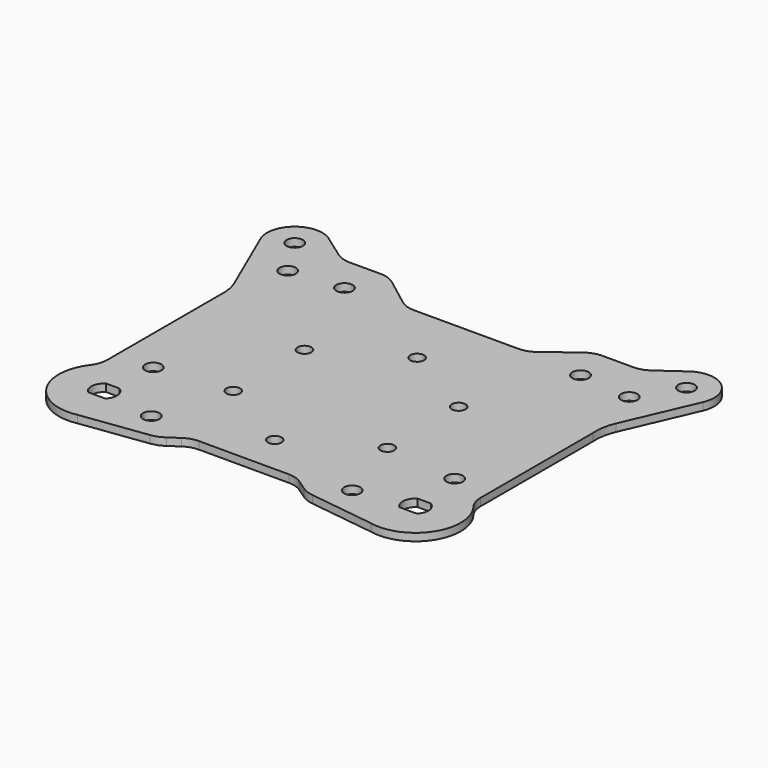
from build123d import *

# Parameters (mm, degrees)
F0_R     = 3.25
F0_R_2   = 2.75
F1_DEPTH = 3


with BuildPart() as f1:
    # F0 (on Top) → F1 (new body)
    with BuildSketch(Plane.XY):
        with BuildLine():
            Line((32.378213, -81.806454), (58.360535, -85.251828))
            ThreePointArc((58.360535, -85.251828), (77.254344, -77.201879), (76.349017, -56.684617))
            ThreePointArc((76.349017, -56.684617), (74.832645, -53.825332), (74.308901, -50.631497))
            Line((74.308901, -50.631497), (74.308901, 5.449101))
            ThreePointArc((74.308901, 5.449101), (74.545235, 10.183875), (75.895802, 14.728091))
            Line((75.895802, 14.728091), (88.09533, 42.92005))
            ThreePointArc((88.09533, 42.92005), (84.599998, 56.088611), (70.979487, 55.756927))
            Line((70.979487, 55.756927), (62.248647, 49.558354))
            ThreePointArc((62.248647, 49.558354), (59.497743, 48.185005), (56.459629, 47.712327))
            Line((56.459629, 47.712327), (44.118508, 47.712327))
            ThreePointArc((44.118508, 47.712327), (40.933325, 47.191494), (38.079932, 45.683249))
            Line((38.079932, 45.683249), (26.768604, 37.114063))
            ThreePointArc((26.768604, 37.114063), (23.915211, 35.605818), (20.730028, 35.084985))
            Line((20.730028, 35.084985), (0, 35.084985))
            Line((0, 35.084985), (-20.730028, 35.084985))
            ThreePointArc((-20.730028, 35.084985), (-23.915211, 35.605818), (-26.768604, 37.114063))
            Line((-26.768604, 37.114063), (-38.079932, 45.683249))
            ThreePointArc((-38.079932, 45.683249), (-40.933325, 47.191494), (-44.118508, 47.712327))
            Line((-44.118508, 47.712327), (-56.459629, 47.712327))
            ThreePointArc((-56.459629, 47.712327), (-59.497743, 48.185005), (-62.248647, 49.558354))
            Line((-62.248647, 49.558354), (-70.979487, 55.756927))
            ThreePointArc((-70.979487, 55.756927), (-84.599998, 56.088611), (-88.09533, 42.92005))
            Line((-88.09533, 42.92005), (-75.895802, 14.728091))
            ThreePointArc((-75.895802, 14.728091), (-74.545235, 10.183875), (-74.308901, 5.449101))
            Line((-74.308901, 5.449101), (-74.308901, -50.631497))
            ThreePointArc((-74.308901, -50.631497), (-74.832645, -53.825332), (-76.349017, -56.684617))
            ThreePointArc((-76.349017, -56.684617), (-77.254344, -77.201879), (-58.360535, -85.251828))
            Line((-58.360535, -85.251828), (-32.378213, -81.806454))
            ThreePointArc((-32.378213, -81.806454), (-29.750134, -81.136827), (-27.350595, -79.872941))
            Line((-27.350595, -79.872941), (-23.530637, -77.245817))
            ThreePointArc((-23.530637, -77.245817), (-20.830919, -75.935587), (-17.864027, -75.485328))
            Line((-17.864027, -75.485328), (0, -75.485328))
            Line((0, -75.485328), (17.864027, -75.485328))
            ThreePointArc((17.864027, -75.485328), (20.830919, -75.935587), (23.530637, -77.245817))
            Line((23.530637, -77.245817), (27.350595, -79.872941))
            ThreePointArc((27.350595, -79.872941), (29.750134, -81.136827), (32.378213, -81.806454))
        make_face()
        with BuildLine():
            ThreePointArc((-65.456733, -71.3121), (-67.047343, -67.067267), (-64.611023, -63.244572))
            Line((-64.611023, -63.244572), (-59.388977, -63.244572))
            ThreePointArc((-59.388977, -63.244572), (-56.952657, -67.067267), (-58.543267, -71.3121))
            Line((-58.543267, -71.3121), (-65.456733, -71.3121))
        make_face(mode=Mode.SUBTRACT)
        with Locations((-40, -71.596374)):
            Circle(F0_R, mode=Mode.SUBTRACT)
        with Locations((-60, -45.596374)):
            Circle(F0_R, mode=Mode.SUBTRACT)
        with Locations((-30.694099, -42.445493)):
            Circle(F0_R_2, mode=Mode.SUBTRACT)
        with Locations((40, -71.596374)):
            Circle(F0_R, mode=Mode.SUBTRACT)
        with Locations((0, -60.166739)):
            Circle(F0_R_2, mode=Mode.SUBTRACT)
        with BuildLine():
            ThreePointArc((58.543267, -71.3121), (56.952657, -67.067267), (59.388977, -63.244572))
            Line((59.388977, -63.244572), (64.611023, -63.244572))
            ThreePointArc((64.611023, -63.244572), (67.047343, -67.067267), (65.456733, -71.3121))
            Line((65.456733, -71.3121), (58.543267, -71.3121))
        make_face(mode=Mode.SUBTRACT)
        with Locations((30.694099, -42.445493)):
            Circle(F0_R_2, mode=Mode.SUBTRACT)
        with Locations((60, -45.596374)):
            Circle(F0_R, mode=Mode.SUBTRACT)
        with Locations((-30.694099, -7.003001)):
            Circle(F0_R_2, mode=Mode.SUBTRACT)
        with Locations((-68, 31.28861)):
            Circle(F0_R, mode=Mode.SUBTRACT)
        with Locations((-47, 33.28861)):
            Circle(F0_R, mode=Mode.SUBTRACT)
        with Locations((-78, 47.28861)):
            Circle(F0_R, mode=Mode.SUBTRACT)
        with Locations((30.694099, -7.003001)):
            Circle(F0_R_2, mode=Mode.SUBTRACT)
        with Locations((0, 10.718245)):
            Circle(F0_R_2, mode=Mode.SUBTRACT)
        with Locations((47, 33.28861)):
            Circle(F0_R, mode=Mode.SUBTRACT)
        with Locations((68, 31.28861)):
            Circle(F0_R, mode=Mode.SUBTRACT)
        with Locations((78, 47.28861)):
            Circle(F0_R, mode=Mode.SUBTRACT)
    extrude(amount=F1_DEPTH)


solid = f1.part
